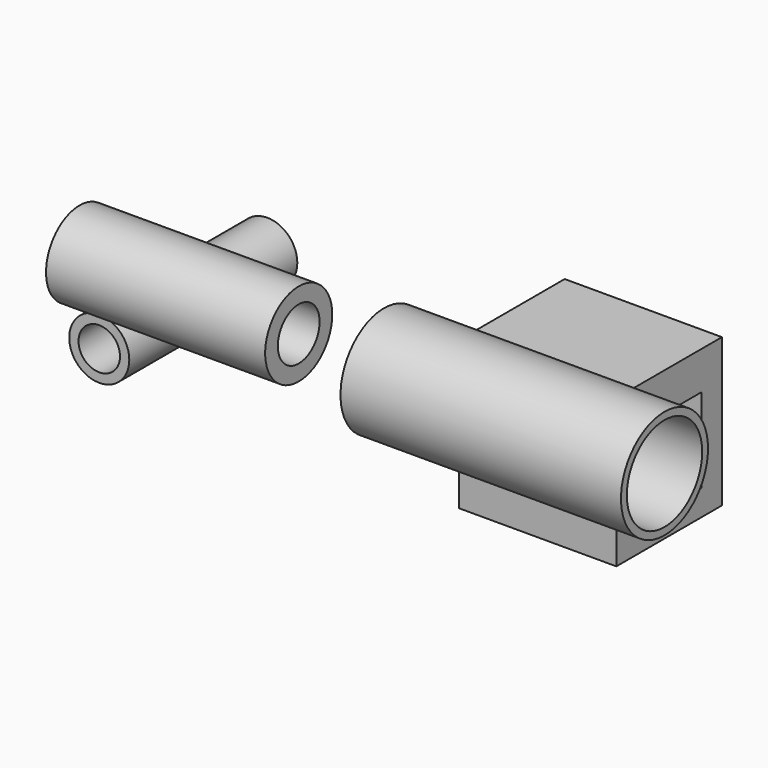
from build123d import *

# Parameters (mm, degrees)
F0_R     = 12.557076
F0_R_2   = 8.684803
F1_DEPTH = 87.884
F2_R     = 17.537601
F2_R_2   = 10.923049
F3_DEPTH = 91.694
F4_R     = 22.759749
F4_R_2   = 19.710562
F5_DEPTH = 117.348
F6_W     = 55.20175
F6_H     = 62.005337
F6_W_2   = 28.662441
F6_H_2   = 35.169784
F7_DEPTH = 65.786


with BuildPart() as f1:
    # F0 (on Front) → F1 (new body)
    with BuildSketch(Plane.XZ):
        with Locations((-124.41849, 7.28937)):
            Circle(F0_R)
        with Locations((-124.41849, 7.28937)):
            Circle(F0_R_2, mode=Mode.SUBTRACT)
    extrude(amount=F1_DEPTH)


with BuildPart() as f3:
    # F2 (on Right) → F3 (new body)
    with BuildSketch(Plane.YZ):
        with Locations((-253.715754, 150.45099)):
            Circle(F2_R)
        with Locations((-253.715754, 150.45099)):
            Circle(F2_R_2, mode=Mode.SUBTRACT)
    extrude(amount=F3_DEPTH)


with BuildPart() as f5:
    # F4 (on Right) → F5 (new body)
    with BuildSketch(Plane.YZ):
        with Locations((-94.479904, 42.639732)):
            Circle(F4_R)
        with Locations((-94.479904, 42.639732)):
            Circle(F4_R_2, mode=Mode.SUBTRACT)
    extrude(amount=F5_DEPTH)


with BuildPart() as f7:
    # F6 (on Right) → F7 (new body)
    with BuildSketch(Plane.YZ):
        with Locations((-27.600875, 6.707558)):
            Rectangle(F6_W, F6_H)
        with Locations((-24.946951, 4.195858)):
            Rectangle(F6_W_2, F6_H_2, mode=Mode.SUBTRACT)
    extrude(amount=F7_DEPTH)


solid = Compound([f1.part, f3.part, f5.part, f7.part])
